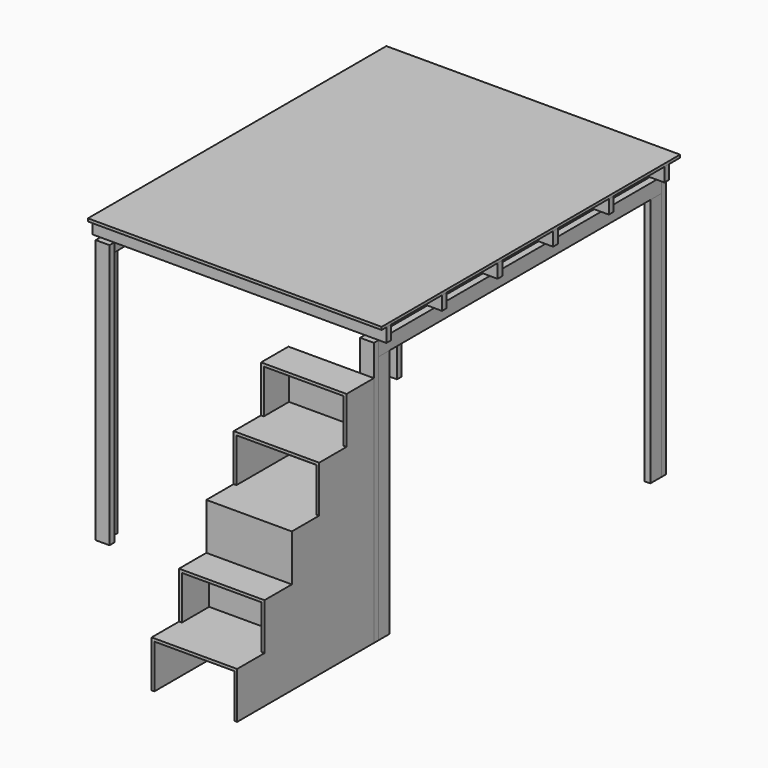
from build123d import *

# Parameters (mm, degrees)
F1_DEPTH      = 1700
F0_W          = 38
F0_H          = 89
F2_DEPTH      = 1606
F3_W          = 44
F3_H          = 94
F4_DEPTH      = 2274
F5_W          = 38
F5_H          = 89
F6_DEPTH      = 945
F6_DEPTH_BACK = 945
F7_W          = 1890
F7_H          = 2400
F8_DEPTH      = 18
F10_DEPTH     = 550
F12_DEPTH     = 18
F13_W         = 624
F13_H         = 50
F14_DEPTH     = 18


with BuildPart() as f1:
    # F0 (on Top) → F1 (new body)
    with BuildSketch(Plane.XY):
        Polygon((-806, 2350), (-895, 2350), (-895, 2312), (-857, 2312), (-806, 2312), align=None)
    extrude(amount=F1_DEPTH)


with BuildPart() as f1b:
    # F0 (on Top) → F1, piece 2 (new body)
    with BuildSketch(Plane.XY):
        Polygon((895, 2350), (806, 2350), (806, 2312), (857, 2312), (895, 2312), align=None)
    extrude(amount=F1_DEPTH)


with BuildPart() as f1c:
    # F0 (on Top) → F1, piece 3 (new body)
    with BuildSketch(Plane.XY):
        Polygon((895, 0), (895, 38), (857, 38), (806, 38), (806, 0), align=None)
    extrude(amount=F1_DEPTH)


with BuildPart() as f1d:
    # F0 (on Top) → F1, piece 4 (new body)
    with BuildSketch(Plane.XY):
        Polygon((-895, 38), (-895, 0), (-806, 0), (-806, 38), (-857, 38), align=None)
    extrude(amount=F1_DEPTH)


with BuildPart() as f2:
    # F0 (on Top) → F2 (new body)
    with BuildSketch(Plane.XY):
        with Locations((-876, 2267.5)):
            Rectangle(F0_W, F0_H)
    extrude(amount=F2_DEPTH)


with BuildPart() as f2b:
    # F0 (on Top) → F2, piece 2 (new body)
    with BuildSketch(Plane.XY):
        with Locations((876, 2267.5)):
            Rectangle(F0_W, F0_H)
    extrude(amount=F2_DEPTH)


with BuildPart() as f2c:
    # F0 (on Top) → F2, piece 3 (new body)
    with BuildSketch(Plane.XY):
        with Locations((876, 82.5)):
            Rectangle(F0_W, F0_H)
    extrude(amount=F2_DEPTH)


with BuildPart() as f2d:
    # F0 (on Top) → F2, piece 4 (new body)
    with BuildSketch(Plane.XY):
        with Locations((-876, 82.5)):
            Rectangle(F0_W, F0_H)
    extrude(amount=F2_DEPTH)


with BuildPart() as f4:
    # F3 (on face) → F4 (new body, through all)
    with BuildSketch(Plane.XZ.offset(-2312)):
        with Locations((-873, 1653)):
            Rectangle(F3_W, F3_H)
    extrude(amount=F4_DEPTH)


with BuildPart() as f4b:
    # F3 (on face) → F4, piece 2 (new body, through all)
    with BuildSketch(Plane.XZ.offset(-2312)):
        with Locations((873, 1653)):
            Rectangle(F3_W, F3_H)
    extrude(amount=F4_DEPTH)


with BuildPart() as f6:
    # F5 (on Right) → F6 (new body, two sides)
    with BuildSketch(Plane.YZ) as f6_sk:
        with Locations((504.2, 1744.5)):
            Rectangle(F5_W, F5_H)
    extrude(amount=F6_DEPTH)
    extrude(f6_sk.sketch, amount=-F6_DEPTH_BACK)


with BuildPart() as f6b:
    # F5 (on Right) → F6, piece 2 (new body, two sides)
    with BuildSketch(Plane.YZ) as f6_2_sk:
        with Locations((951.4, 1744.5)):
            Rectangle(F5_W, F5_H)
    extrude(amount=F6_DEPTH)
    extrude(f6_2_sk.sketch, amount=-F6_DEPTH_BACK)


with BuildPart() as f6c:
    # F5 (on Right) → F6, piece 3 (new body, two sides)
    with BuildSketch(Plane.YZ) as f6_3_sk:
        with Locations((1398.6, 1744.5)):
            Rectangle(F5_W, F5_H)
    extrude(amount=F6_DEPTH)
    extrude(f6_3_sk.sketch, amount=-F6_DEPTH_BACK)


with BuildPart() as f6d:
    # F5 (on Right) → F6, piece 4 (new body, two sides)
    with BuildSketch(Plane.YZ) as f6_4_sk:
        with Locations((1845.8, 1744.5)):
            Rectangle(F5_W, F5_H)
    extrude(amount=F6_DEPTH)
    extrude(f6_4_sk.sketch, amount=-F6_DEPTH_BACK)


with BuildPart() as f6e:
    # F5 (on Right) → F6, piece 5 (new body, two sides)
    with BuildSketch(Plane.YZ) as f6_5_sk:
        with Locations((57, 1744.5)):
            Rectangle(F5_W, F5_H)
    extrude(amount=F6_DEPTH)
    extrude(f6_5_sk.sketch, amount=-F6_DEPTH_BACK)


with BuildPart() as f6f:
    # F5 (on Right) → F6, piece 6 (new body, two sides)
    with BuildSketch(Plane.YZ) as f6_6_sk:
        with Locations((2293, 1744.5)):
            Rectangle(F5_W, F5_H)
    extrude(amount=F6_DEPTH)
    extrude(f6_6_sk.sketch, amount=-F6_DEPTH_BACK)


with BuildPart() as f8:
    # F7 (on face) → F8 (new body)
    with BuildSketch(Plane.XY.offset(1789)):
        with Locations((0, 1200)):
            Rectangle(F7_W, F7_H)
    extrude(amount=F8_DEPTH)


with BuildPart() as f10:
    # F9 (on face) → F10 (new body)
    with BuildSketch(Plane.YZ.offset(895)):
        Polygon((-660, 582), (-660, 600), (-880, 600), (-880, 582), (-862, 582), align=None)
        Polygon((-202, 1200), (-220, 1200), (-440, 1200), (-440, 1182), (-422, 1182), (-202, 1182), (-18, 1182), (-18, 1200), align=None)
        Polygon((-862, 282), (-660, 282), (-660, 300), (-862, 300), (-880, 300), (-1100, 300), (-1100, 282), (-1082, 282), align=None)
        Polygon((0, 1200), (0, 1500), (-220, 1500), (-220, 1482), (-202, 1482), (-18, 1482), (-18, 1200), (-18, 1182), (-18, 900), (-18, 882), (-18, 0), (0, 0), (0, 1182), align=None)
        Polygon((-660, 0), (-642, 0), (-642, 582), (-642, 882), (-422, 882), (-18, 882), (-18, 900), (-422, 900), (-440, 900), (-660, 900), (-660, 600), (-660, 582), (-660, 300), (-660, 282), align=None)
    extrude(amount=-F10_DEPTH)

    # F11 (on face) → F12 (join)
    with BuildSketch(Plane.YZ.offset(895)):
        Polygon((0, 0), (0, 1500), (-220, 1500), (-220, 1200), (-440, 1200), (-440, 900), (-660, 900), (-660, 600), (-880, 600), (-880, 300), (-1100, 300), (-1100, 0), align=None)
    extrude(amount=-F12_DEPTH)

    # F13 (on face) → F14 (join)
    with BuildSketch(Plane(origin=(345, 0, 0), x_dir=(0, -1, 0), z_dir=(-1, 0, 0))):
        Polygon((220, 1500), (0, 1500), (0, 900), (440, 900), (440, 1200), (220, 1200), align=None)
        Polygon((880, 600), (660, 600), (660, 0), (1100, 0), (1100, 300), (880, 300), align=None)
        with Locations((330, 857)):
            Rectangle(F13_W, F13_H)
    extrude(amount=-F14_DEPTH)


solid = Compound([f1.part, f1b.part, f1c.part, f1d.part, f2.part, f2b.part, f2c.part, f2d.part, f4.part, f4b.part, f6.part, f6b.part, f6c.part, f6d.part, f6e.part, f6f.part, f8.part, f10.part])
